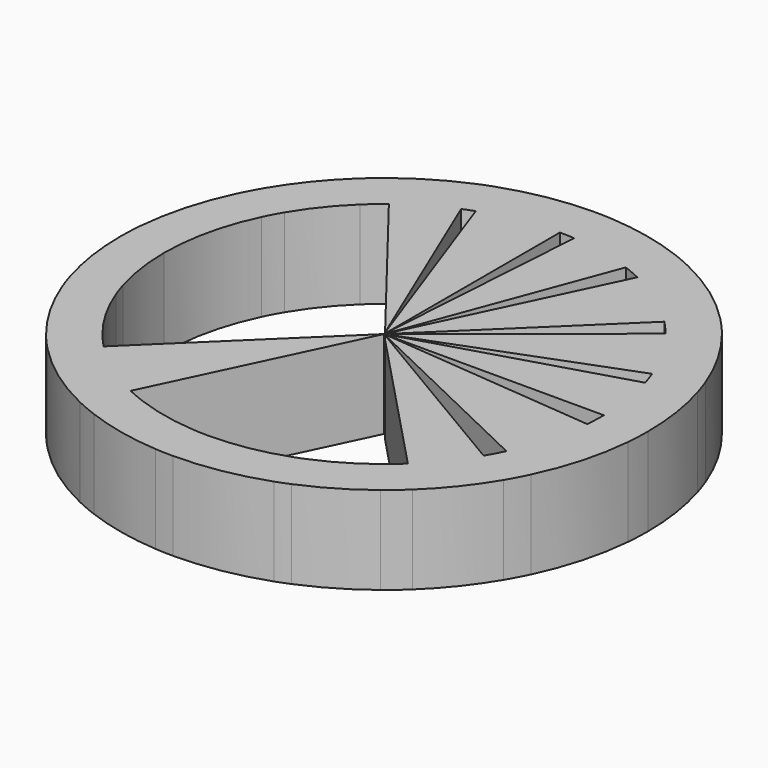
from build123d import *

# Parameters (mm, degrees)
F1_DEPTH = 25.4
F2_DEPTH = 25.4
F3_DEPTH = 25.4


with BuildPart() as f1:
    # F0 (on Top) → F1 (new body)
    with BuildSketch(Plane.XY):
        with BuildLine():
            ThreePointArc((-54.6454294548, 32.3438872076), (-49.6595784817, 39.574944915), (-43.7236170719, 46.0488361432))
            Line((-43.7236170719, 46.0488361432), (-52.4683404863, 55.2586033719))
            ThreePointArc((-52.4683404863, 55.2586033719), (-59.591494178, 47.489933898), (-65.5745153458, 38.8126646491))
            Line((-65.5745153458, 38.8126646491), (-54.6454294548, 32.3438872076))
        make_face()
        with BuildLine():
            Line((-52.4683404863, 55.2586033719), (-43.7236170719, 46.0488361432))
            ThreePointArc((-43.7236170719, 46.0488361432), (-41.3174458853, 48.2194842933), (-38.8036697839, 50.2645522342))
            Line((-38.8036697839, 50.2645522342), (-46.6003690954, 60.2896807105))
            ThreePointArc((-46.6003690954, 60.2896807105), (-49.5981878635, 57.8485934199), (-52.4683404863, 55.2586033719))
        make_face()
        with BuildLine():
            Line((-46.6003690954, 60.2896807105), (-38.8036697839, 50.2645522342))
            ThreePointArc((-38.8036697839, 50.2645522342), (-31.9594802346, 54.8711365212), (-24.5758212425, 58.5515073269))
            Line((-24.5758212425, 58.5515073269), (-29.490985491, 70.2618087923))
            ThreePointArc((-29.490985491, 70.2618087923), (-38.3710098293, 65.8339244211), (-46.6003690954, 60.2896807105))
        make_face()
        with BuildLine():
            Line((-29.490985491, 70.2618087923), (-24.5758212425, 58.5515073269))
            ThreePointArc((-24.5758212425, 58.5515073269), (-22.971715152, 59.1992424189), (-21.3505595618, 59.80304011))
            Line((-21.3505595618, 59.80304011), (-25.6206714742, 71.763648132))
            ThreePointArc((-25.6206714742, 71.763648132), (-27.5660581824, 71.0390909027), (-29.490985491, 70.2618087923))
        make_face()
        with BuildLine():
            ThreePointArc((-21.3505595618, 59.80304011), (-10.8341347835, 62.5689341726), (0, 63.5))
            Line((0, 63.5), (0, 76.2))
            ThreePointArc((0, 76.2), (-13.0009617403, 75.0827210071), (-25.6206714742, 71.763648132))
            Line((-25.6206714742, 71.763648132), (-21.3505595618, 59.80304011))
        make_face()
        with BuildLine():
            Line((0, 76.2), (0, 63.5))
            ThreePointArc((0, 63.5), (2.1245390247, 63.4644493708), (4.2466991927, 63.3578372892))
            Line((4.2466991927, 63.3578372892), (5.0960390312, 76.0294047471))
            ThreePointArc((5.0960390312, 76.0294047471), (2.5494468296, 76.1573392449), (0, 76.2))
        make_face()
        with BuildLine():
            ThreePointArc((4.2466991927, 63.3578372892), (13.3844402215, 62.0733981667), (22.2395451076, 59.4781693852))
            Line((22.2395451075, 59.4781693852), (26.6874541291, 71.3738032622))
            ThreePointArc((26.6874541291, 71.3738032622), (16.0613282658, 74.4880778), (5.0960390312, 76.0294047471))
            Line((5.0960390312, 76.0294047471), (4.2466991927, 63.3578372892))
        make_face()
        with BuildLine():
            Line((27.2918502922, 57.335895455), (32.7502203506, 68.803074546))
            ThreePointArc((32.7502203506, 68.803074546), (29.74662079, 70.1539631922), (26.6874541291, 71.3738032622))
            Line((26.6874541291, 71.3738032622), (22.2395451075, 59.4781693852))
            ThreePointArc((22.2395451076, 59.4781693852), (24.7888506583, 58.4616359935), (27.2918502922, 57.335895455))
        make_face()
        with BuildLine():
            Line((45.5935282898, 44.1981920229), (54.7122339477, 53.0378304275))
            ThreePointArc((54.7122339477, 53.0378304275), (44.4359759486, 61.9022135428), (32.7502203506, 68.803074546))
            Line((32.7502203506, 68.803074546), (27.2918502922, 57.335895455))
            ThreePointArc((27.2918502922, 57.335895455), (37.0299799571, 51.5851779523), (45.5935282898, 44.1981920229))
        make_face()
        with BuildLine():
            Line((49.4835493014, 39.7948281631), (59.3802591617, 47.7537937958))
            ThreePointArc((59.3802591617, 47.7537937958), (57.1073945016, 50.4498314491), (54.7122339477, 53.0378304275))
            Line((54.7122339477, 53.0378304275), (45.5935282898, 44.1981920229))
            ThreePointArc((45.5935282898, 44.1981920229), (47.589495418, 42.0415262075), (49.4835493014, 39.7948281631))
        make_face()
        with BuildLine():
            Line((59.3431659035, 22.5973153393), (71.2117990842, 27.1167784072))
            ThreePointArc((71.2117990842, 27.1167784072), (66.106300912, 37.8998282283), (59.3802591617, 47.7537937958))
            Line((59.3802591617, 47.7537937958), (49.4835493014, 39.7948281631))
            ThreePointArc((49.4835493014, 39.7948281631), (55.0885840933, 31.5831901902), (59.3431659035, 22.5973153393))
        make_face()
        with BuildLine():
            Line((60.8277151615, 18.2274262647), (72.9932581938, 21.8729115177))
            ThreePointArc((72.9932581938, 21.8729115177), (72.1501848309, 24.5110348389), (71.2117990842, 27.1167784072))
            Line((71.2117990842, 27.1167784072), (59.3431659035, 22.5973153393))
            ThreePointArc((59.3431659035, 22.5973153393), (60.1251540257, 20.4258623657), (60.8277151615, 18.2274262647))
        make_face()
        with BuildLine():
            ThreePointArc((-60.8277151615, -18.2274262647), (-62.8283769994, -9.2111369344), (-63.5, 0))
            Line((-63.5, 0), (-76.2, 0))
            ThreePointArc((-76.2, 0), (-75.3940523993, -11.0533643212), (-72.9932581938, -21.8729115177))
            Line((-72.9932581938, -21.8729115177), (-60.8277151615, -18.2274262647))
        make_face()
        with BuildLine():
            Line((-76.2, 0), (-63.5, 0))
            ThreePointArc((-63.5, 0), (-63.4357184014, 2.8565067652), (-63.2430037512, 5.7072301974))
            Line((-63.2430037512, 5.7072301974), (-75.8916045014, 6.8486762369))
            ThreePointArc((-75.8916045014, 6.8486762369), (-76.1228620817, 3.4278081182), (-76.2, 0))
        make_face()
        with BuildLine():
            ThreePointArc((68.7314420597, -32.9002868133), (73.4753564303, -20.1943555836), (75.8916045014, -6.8486762369))
            Line((75.8916045014, -6.8486762369), (63.2430037512, -5.7072301974))
            ThreePointArc((63.2430037512, -5.7072301974), (61.2294636919, -16.828629653), (57.2762017164, -27.4169056777))
            Line((57.2762017164, -27.4169056777), (68.7314420597, -32.9002868133))
        make_face()
        with BuildLine():
            ThreePointArc((65.5745153458, -38.8126646491), (67.218015454, -35.8912022428), (68.7314420597, -32.9002868133))
            Line((68.7314420597, -32.9002868133), (57.2762017164, -27.4169056777))
            ThreePointArc((57.2762017164, -27.4169056777), (56.0150128783, -29.9093352023), (54.6454294548, -32.3438872076))
            Line((54.6454294548, -32.3438872076), (65.5745153458, -38.8126646491))
        make_face()
        with BuildLine():
            ThreePointArc((52.4683404863, -55.2586033719), (59.591494178, -47.489933898), (65.5745153458, -38.8126646491))
            Line((65.5745153458, -38.8126646491), (54.6454294548, -32.3438872076))
            ThreePointArc((54.6454294548, -32.3438872076), (49.6595784817, -39.574944915), (43.7236170719, -46.0488361432))
            Line((43.7236170719, -46.0488361432), (52.4683404863, -55.2586033719))
        make_face()
        with BuildLine():
            ThreePointArc((46.9591074707, -60.0106842617), (49.7704723708, -57.7004339671), (52.4683404863, -55.2586033719))
            Line((52.4683404863, -55.2586033719), (43.7236170719, -46.0488361432))
            ThreePointArc((43.7236170719, -46.0488361432), (41.4897304768, -48.0713247681), (39.1624081592, -49.9855557853))
            Line((39.1624081592, -49.9855557854), (46.9591074707, -60.0106842617))
        make_face()
        with BuildLine():
            ThreePointArc((39.1624081592, -49.9855557853), (32.1556270856, -54.7564210548), (24.5758212425, -58.5515073269))
            Line((24.5758212425, -58.5515073269), (29.490985491, -70.2618087923))
            ThreePointArc((29.490985491, -70.2618087923), (38.5671565843, -65.7192090108), (46.9591074707, -60.0106842617))
            Line((46.9591074707, -60.0106842617), (39.1624081592, -49.9855557854))
        make_face()
        with BuildLine():
            Line((29.490985491, -70.2618087923), (24.5758212425, -58.5515073269))
            ThreePointArc((24.5758212425, -58.5515073269), (22.971715152, -59.1992424189), (21.3505595618, -59.80304011))
            Line((21.3505595618, -59.80304011), (25.6206714742, -71.763648132))
            ThreePointArc((25.6206714742, -71.763648132), (27.5660581824, -71.0390909027), (29.490985491, -70.2618087923))
        make_face()
        with BuildLine():
            ThreePointArc((21.3505595618, -59.80304011), (10.8341347835, -62.5689341726), (0, -63.5))
            Line((0, -63.5), (0, -76.2))
            ThreePointArc((0, -76.2), (13.0009617403, -75.0827210071), (25.6206714742, -71.763648132))
            Line((25.6206714742, -71.763648132), (21.3505595618, -59.80304011))
        make_face()
        with BuildLine():
            Line((0, -76.2), (0, -63.5))
            ThreePointArc((0, -63.5), (-2.1245390247, -63.4644493708), (-4.2466991927, -63.3578372892))
            Line((-4.2466991927, -63.3578372892), (-5.0960390312, -76.0294047471))
            ThreePointArc((-5.0960390312, -76.0294047471), (-2.5494468296, -76.1573392449), (0, -76.2))
        make_face()
        with BuildLine():
            ThreePointArc((-4.2466991927, -63.3578372892), (-13.3844402215, -62.0733981667), (-22.2395451076, -59.4781693852))
            Line((-22.2395451075, -59.4781693852), (-26.6874541291, -71.3738032622))
            ThreePointArc((-26.6874541291, -71.3738032622), (-16.0613282658, -74.4880778), (-5.0960390312, -76.0294047471))
            Line((-5.0960390312, -76.0294047471), (-4.2466991927, -63.3578372892))
        make_face()
        with BuildLine():
            Line((-26.6874541291, -71.3738032622), (-22.2395451075, -59.4781693852))
            ThreePointArc((-22.2395451076, -59.4781693852), (-24.7888506583, -58.4616359935), (-27.2918502922, -57.335895455))
            Line((-27.2918502922, -57.335895455), (-32.7502203506, -68.803074546))
            ThreePointArc((-32.7502203506, -68.803074546), (-29.74662079, -70.1539631922), (-26.6874541291, -71.3738032622))
        make_face()
        with BuildLine():
            ThreePointArc((-27.2918502922, -57.335895455), (-37.0299799571, -51.5851779523), (-45.5935282898, -44.1981920229))
            Line((-45.5935282898, -44.1981920229), (-54.7122339477, -53.0378304275))
            ThreePointArc((-54.7122339477, -53.0378304275), (-44.4359759486, -61.9022135428), (-32.7502203506, -68.803074546))
            Line((-32.7502203506, -68.803074546), (-27.2918502922, -57.335895455))
        make_face()
        with BuildLine():
            ThreePointArc((-49.4835493014, -39.7948281631), (-55.0885840933, -31.5831901902), (-59.3431659035, -22.5973153393))
            Line((-59.3431659035, -22.5973153393), (-71.2117990842, -27.1167784072))
            ThreePointArc((-71.2117990842, -27.1167784072), (-66.106300912, -37.8998282283), (-59.3802591617, -47.7537937958))
            Line((-59.3802591617, -47.7537937958), (-49.4835493014, -39.7948281631))
        make_face()
        with BuildLine():
            Line((63.5, 0), (76.2, 0))
            ThreePointArc((76.2, 0), (75.3940523993, 11.0533643212), (72.9932581938, 21.8729115177))
            Line((72.9932581938, 21.8729115177), (60.8277151615, 18.2274262647))
            ThreePointArc((60.8277151615, 18.2274262647), (62.8283769994, 9.2111369344), (63.5, 0))
        make_face()
        with BuildLine():
            ThreePointArc((-63.2430037512, 5.7072301974), (-61.2294636919, 16.828629653), (-57.2762017164, 27.4169056777))
            Line((-57.2762017164, 27.4169056777), (-68.7314420597, 32.9002868133))
            ThreePointArc((-68.7314420597, 32.9002868133), (-73.4753564303, 20.1943555836), (-75.8916045014, 6.8486762369))
            Line((-75.8916045014, 6.8486762369), (-63.2430037512, 5.7072301974))
        make_face()
        with BuildLine():
            Line((-54.7122339477, -53.0378304275), (-45.5935282898, -44.1981920229))
            ThreePointArc((-45.5935282898, -44.1981920229), (-47.589495418, -42.0415262075), (-49.4835493014, -39.7948281631))
            Line((-49.4835493014, -39.7948281631), (-59.3802591617, -47.7537937958))
            ThreePointArc((-59.3802591617, -47.7537937958), (-57.1073945016, -50.4498314491), (-54.7122339477, -53.0378304275))
        make_face()
        with BuildLine():
            Line((-71.2117990842, -27.1167784072), (-59.3431659035, -22.5973153393))
            ThreePointArc((-59.3431659035, -22.5973153393), (-60.1251540257, -20.4258623657), (-60.8277151615, -18.2274262647))
            Line((-60.8277151615, -18.2274262647), (-72.9932581938, -21.8729115177))
            ThreePointArc((-72.9932581938, -21.8729115177), (-72.1501848309, -24.5110348389), (-71.2117990842, -27.1167784072))
        make_face()
        with BuildLine():
            ThreePointArc((75.8916045014, -6.8486762369), (76.1228620817, -3.4278081182), (76.2, 0))
            Line((76.2, 0), (63.5, 0))
            ThreePointArc((63.5, 0), (63.4357184014, -2.8565067652), (63.2430037512, -5.7072301974))
            Line((63.2430037512, -5.7072301974), (75.8916045014, -6.8486762369))
        make_face()
        with BuildLine():
            Line((-68.7314420597, 32.9002868133), (-57.2762017164, 27.4169056777))
            ThreePointArc((-57.2762017164, 27.4169056777), (-56.0150128783, 29.9093352023), (-54.6454294548, 32.3438872076))
            Line((-54.6454294548, 32.3438872076), (-65.5745153458, 38.8126646491))
            ThreePointArc((-65.5745153458, 38.8126646491), (-67.218015454, 35.8912022428), (-68.7314420597, 32.9002868133))
        make_face()
    extrude(amount=F1_DEPTH)

    # F0 (on Top) → F2 (join)
    with BuildSketch(Plane.XY):
        with BuildLine():
            Line((-38.8036697839, 50.2645522342), (-0.3375081808, 0.8041079289))
            Line((-0.3375081808, 0.8041079289), (-24.5758212425, 58.5515073269))
            ThreePointArc((-24.5758212425, 58.5515073269), (-31.9594802346, 54.8711365212), (-38.8036697839, 50.2645522342))
        make_face()
        with BuildLine():
            Line((-0.2442825508, 0.6842368296), (0, 0.3701341743))
            Line((0, 0.3701341743), (0, 63.5))
            ThreePointArc((0, 63.5), (-10.8341347835, 62.5689341726), (-21.3505595618, 59.80304011))
            Line((-21.3505595618, 59.80304011), (-0.2442825508, 0.6842368296))
        make_face()
        with BuildLine():
            Line((0.0228405548, 0.3407654008), (0.0934623297, 0.2499587223))
            Line((0.0934623297, 0.2499587223), (22.2395451075, 59.4781693852))
            ThreePointArc((22.2395451076, 59.4781693852), (13.3844402215, 62.0733981667), (4.2466991927, 63.3578372892))
            Line((4.2466991927, 63.3578372892), (0.0228405548, 0.3407654008))
        make_face()
        with BuildLine():
            Line((0.1092917989, 0.2296049219), (0.1641238083, 0.1591009923))
            Line((0.1641238083, 0.1591009923), (45.5935282898, 44.1981920229))
            ThreePointArc((45.5935282898, 44.1981920229), (37.0299799571, 51.5851779523), (27.2918502922, 57.335895455))
            Line((27.2918502922, 57.335895455), (0.1092917989, 0.2296049219))
        make_face()
        with BuildLine():
            Line((0.222088386, 0.0845691532), (59.3431659035, 22.5973153393))
            ThreePointArc((59.3431659035, 22.5973153393), (55.0885840933, 31.5831901902), (49.4835493014, 39.7948281631))
            Line((49.4835493014, 39.7948281631), (0.1770959808, 0.1424211525))
            Line((0.1770959808, 0.1424211525), (0.222088386, 0.0845691532))
        make_face()
        with BuildLine():
            Line((0.28785914, 0), (63.5, 0))
            ThreePointArc((63.5, 0), (62.8283769994, 9.2111369344), (60.8277151615, 18.2274262647))
            Line((60.8277151615, 18.2274262647), (0.2334533831, 0.0699558469))
            Line((0.2334533831, 0.0699558469), (0.28785914, 0))
        make_face()
        with BuildLine():
            ThreePointArc((57.2762017164, -27.4169056777), (61.2294636919, -16.828629653), (63.2430037512, -5.7072301974))
            Line((63.2430037512, -5.7072301974), (0.3095869732, -0.0279380171))
            Line((0.3095869732, -0.0279380171), (0.4585759838, -0.219510619))
            Line((0.4585759838, -0.219510619), (57.2762017164, -27.4169056777))
        make_face()
        with BuildLine():
            ThreePointArc((43.7236170719, -46.0488361432), (49.6595784817, -39.574944915), (54.6454294548, -32.3438872076))
            Line((54.6454294548, -32.3438872076), (0.5333878977, -0.3157050493))
            Line((0.5333878977, -0.3157050493), (1.5910370144, -1.6756482579))
            Line((1.5910370144, -1.6756482579), (43.7236170719, -46.0488361432))
        make_face()
    extrude(amount=F2_DEPTH)

    # F0 (on Top) → F3 (join)
    with BuildSketch(Plane.XY):
        with BuildLine():
            Line((-27.2918502922, -57.335895455), (0, 0))
            Line((0, 0), (-45.5935282898, -44.1981920229))
            ThreePointArc((-45.5935282898, -44.1981920229), (-37.0299799571, -51.5851779523), (-27.2918502922, -57.335895455))
        make_face()
    extrude(amount=F3_DEPTH)


solid = f1.part
